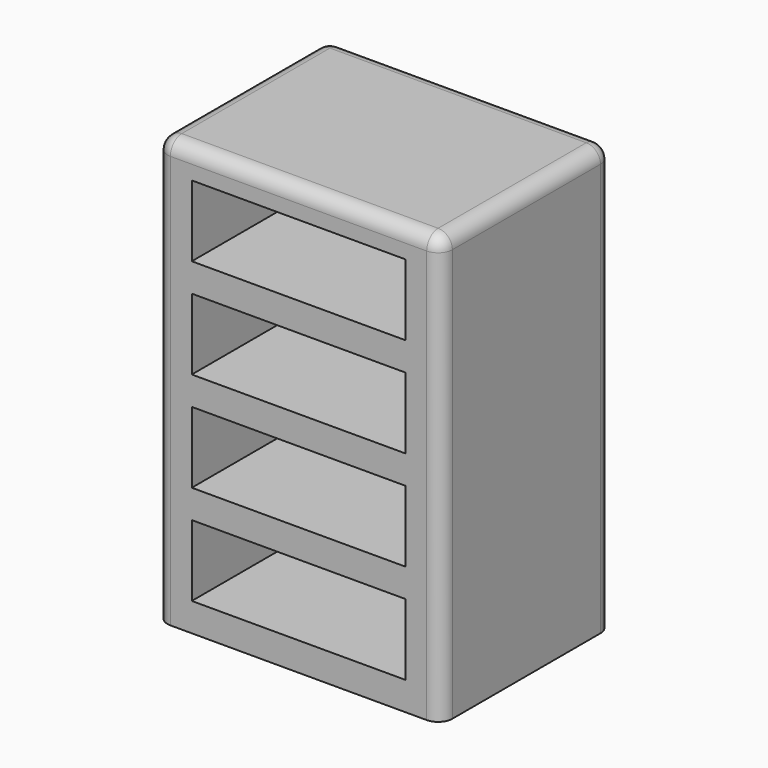
from build123d import *

# Parameters (mm, degrees)
F0_W     = 101.6
F0_H     = 76.2
F1_DEPTH = 152.4
F2_W     = 76.2
F2_H     = 25.4
F3_DEPTH = 50.8
F4_R     = 5.08


with BuildPart() as f1:
    # F0 (on Top) → F1 (new body)
    with BuildSketch(Plane.XY):
        with Locations((0.55306, -0.46621)):
            Rectangle(F0_W, F0_H)
    extrude(amount=F1_DEPTH)

    # F2 (on face) → F3 (cut)
    with BuildSketch(Plane.XZ.offset(38.56621)):
        with Locations((0.55306, 93.98)):
            Rectangle(F2_W, F2_H)
        with Locations((0.55306, 129.54)):
            Rectangle(F2_W, F2_H)
        with Locations((0.55306, 58.42)):
            Rectangle(F2_W, F2_H)
        with Locations((0.55306, 22.86)):
            Rectangle(F2_W, F2_H)
    extrude(amount=-F3_DEPTH, mode=Mode.SUBTRACT)

    # F4
    f4_edges = [f1.edges().sort_by_distance(p)[0] for p in [
        (51.35306, -0.46621, 152.4),
        (-50.24694, -0.46621, 152.4),
        (0.55306, -38.56621, 152.4),
        (0.55306, 37.63379, 152.4),
        (51.35306, -38.56621, 76.2),
        (-50.24694, -38.56621, 76.2),
        (51.35306, 37.63379, 76.2),
        (-50.24694, 37.63379, 76.2),
    ]]
    fillet(f4_edges, radius=F4_R)


solid = f1.part
